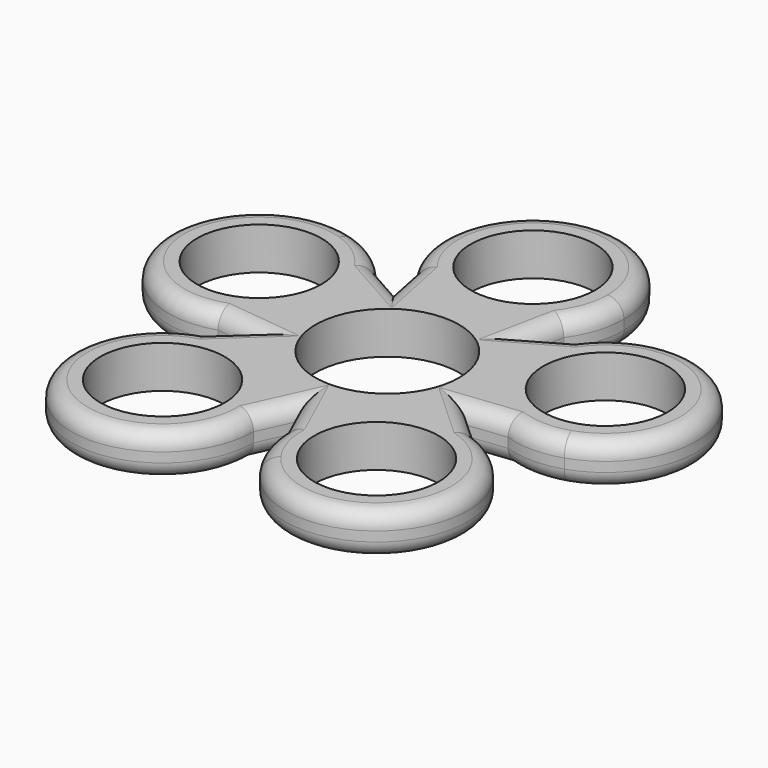
from build123d import *

# Parameters (mm, degrees)
F0_R     = 11.05
F1_DEPTH = 6.5
F2_R     = 2.5
F3_COUNT = 5


with BuildPart() as f1:
    # F0 (on Top) → F1 (new body)
    with BuildSketch(Plane.XY):
        with BuildLine():
            Line((9.575, 17.6837206428), (13, 17.6837206428))
            Line((13, 17.6837206428), (11.3287712625, 9.458215085))
            ThreePointArc((11.3287712625, 9.458215085), (13.3154571396, 13.3595327234), (14, 17.6837206428))
            ThreePointArc((14, 17.6837206428), (-4.3241879194, 30.9991777825), (-11.3287712625, 9.458215085))
            Line((-11.3287712625, 9.458215085), (-13, 17.6837206428))
            Line((-13, 17.6837206428), (-9.575, 17.6837206428))
            ThreePointArc((-9.575, 17.6837206428), (0, 27.2587206428), (9.575, 17.6837206428))
        make_face()
        with BuildLine():
            Line((11.3287712625, 9.458215085), (13, 17.6837206428))
            Line((13, 17.6837206428), (9.575, 17.6837206428))
            ThreePointArc((9.575, 17.6837206428), (0, 8.1087206428), (-9.575, 17.6837206428))
            Line((-9.575, 17.6837206428), (-13, 17.6837206428))
            Line((-13, 17.6837206428), (-11.3287712625, 9.458215085))
            ThreePointArc((-11.3287712625, 9.458215085), (-6.3577874501, 5.2106080105), (-2.92e-08, 3.6837206428))
            ThreePointArc((-2.92e-08, 3.6837206428), (6.3577874241, 5.2106079972), (11.3287712625, 9.458215085))
        make_face()
        with BuildLine():
            ThreePointArc((-9.416050351, 0.044125837), (-5.0474908398, 2.7421599149), (-2.92e-08, 3.6837206428))
            ThreePointArc((-2.92e-08, 3.6837206428), (-6.3577874501, 5.2106080105), (-11.3287712625, 9.458215085))
            Line((-11.3287712625, 9.458215085), (-9.416050351, 0.044125837))
        make_face()
        with BuildLine():
            ThreePointArc((9.416050351, 0.044125837), (5.0474908126, 2.7421599254), (-2.92e-08, 3.6837206428))
            ThreePointArc((-2.92e-08, 3.6837206428), (-5.0474908398, 2.7421599149), (-9.416050351, 0.044125837))
            ThreePointArc((-9.416050351, 0.044125837), (-5.6645959735, -23.1191053131), (14, -10.3162793572))
            ThreePointArc((14, -10.3162793572), (12.8028259559, -4.6516833836), (9.416050351, 0.044125837))
        make_face()
        with Locations((0, -10.3162793572)):
            Circle(F0_R, mode=Mode.SUBTRACT)
        with BuildLine():
            Line((9.416050351, 0.044125837), (11.3287712625, 9.458215085))
            ThreePointArc((11.3287712625, 9.458215085), (6.3577874241, 5.2106079972), (-2.92e-08, 3.6837206428))
            ThreePointArc((-2.92e-08, 3.6837206428), (5.0474908126, 2.7421599254), (9.416050351, 0.044125837))
        make_face()
    extrude(amount=F1_DEPTH)

    # F2
    f2_edges = [f1.edges().sort_by_distance(p)[0] for p in [
        (10.372411, 4.75117, 6.5),
        (0, 31.683721, 6.5),
        (-10.372411, 4.75117, 6.5),
        (0, -24.316279, 6.5),
        (10.372411, 4.75117, 0),
        (0, 31.683721, 0),
        (-10.372411, 4.75117, 0),
        (0, -24.316279, 0),
    ]]
    fillet(f2_edges, radius=F2_R)

    # F3: F1 ×5 about axis
    f3_axis = Axis((0, -10.3162793572, 0), (0, 0, 1))


with BuildPart() as f1_1:
    add(f1.part)
    for i in range(1, F3_COUNT):
        add(f1.part.rotate(f3_axis, i * 360 / F3_COUNT))


solid = f1_1.part
